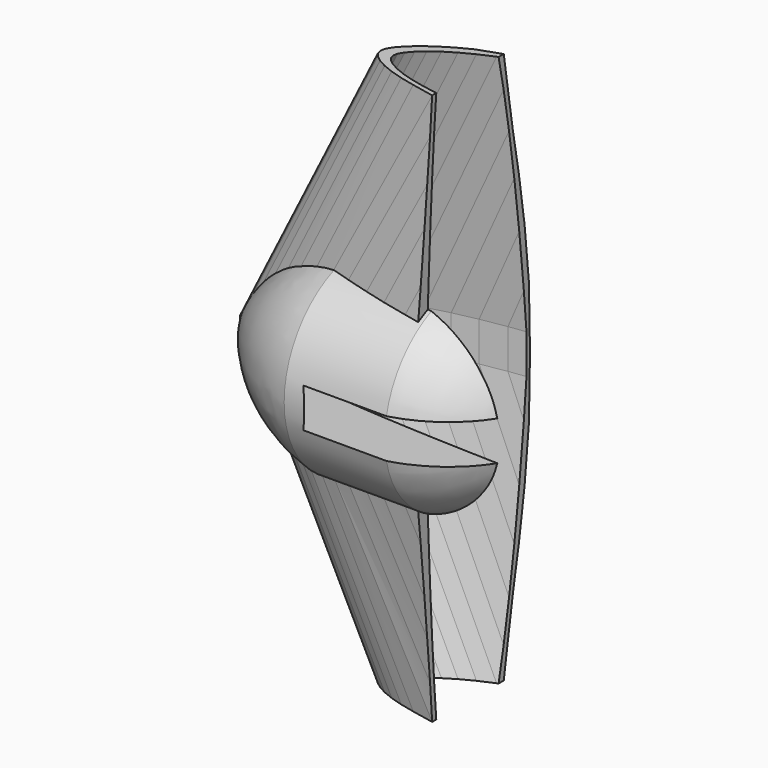
from build123d import *

# Parameters (mm, degrees)
PAD_DEPTH        = 5
REVOLUTION_ANGLE = 180
BOX_W            = 300
BOX_H            = 100
BOX_DEPTH        = 140


with BuildPart() as fusoliera:
    # Sketch → Pad (new body, symmetric)
    with BuildSketch(Plane.XY):
        with BuildLine():
            Line((290, 0), (289.7129, 0.0174))
            Line((289.7129, 0.0174), (288.8574, 0.0696))
            Line((288.8574, 0.0696), (287.4306, 0.1769))
            Line((287.4306, 0.1769), (285.4441, 0.3509))
            Line((285.4441, 0.3509), (282.9037, 0.6003))
            Line((282.9037, 0.6003), (279.8181, 0.9251))
            Line((279.8181, 0.9251), (276.1989, 1.3224))
            Line((276.1989, 1.3224), (272.0635, 1.7893))
            Line((272.0635, 1.7893), (267.4264, 2.3229))
            Line((267.4264, 2.3229), (262.3079, 2.9261))
            Line((262.3079, 2.9261), (256.7254, 3.6076))
            Line((256.7254, 3.6076), (250.6992, 4.3587))
            Line((250.6992, 4.3587), (244.2583, 5.1852))
            Line((244.2583, 5.1852), (237.4259, 6.0784))
            Line((237.4259, 6.0784), (230.2281, 7.0383))
            Line((230.2281, 7.0383), (230.2281, 40.028069))
            Line((230.2281, 40.028069), (201.90651, 39.515951))
            ThreePointArc((172.217343, 14.637652), (187.660006, 26.363067), (201.90651, 39.515951))
            Line((172.217343, 14.637652), (163.1743, 16.2081))
            Line((163.1743, 16.2081), (154.106, 17.371))
            Line((154.106, 17.371), (145, 18.4817))
            Line((145, 18.4817), (135.8969, 19.5199))
            Line((135.8969, 19.5199), (126.8257, 20.4682))
            Line((126.8257, 20.4682), (117.8299, 21.3034))
            Line((117.8299, 21.3034), (108.9414, 22.0023))
            Line((108.9414, 22.0023), (100.1921, 22.5446))
            Line((100.1921, 22.5446), (91.6226, 22.9129))
            Line((91.6226, 22.9129), (83.2619, 23.0898))
            Line((83.2619, 23.0898), (75.1448, 23.0608))
            Line((75.1448, 23.0608), (67.3061, 22.8201))
            Line((67.3061, 22.8201), (59.7719, 22.3561))
            Line((59.7719, 22.3561), (52.5741, 21.6717))
            Line((52.5741, 21.6717), (45.7417, 20.7698))
            Line((45.7417, 20.7698), (39.3008, 19.662))
            Line((39.3008, 19.662), (33.2746, 18.3628))
            Line((33.2746, 18.3628), (27.6921, 16.8896))
            Line((27.6921, 16.8896), (22.5736, 15.2714))
            Line((22.5736, 15.2714), (17.9365, 13.5314))
            Line((17.9365, 13.5314), (13.8011, 11.7015))
            Line((13.8011, 11.7015), (10.1819, 9.8165))
            Line((10.1819, 9.8165), (7.0963, 7.9112))
            Line((7.0963, 7.9112), (4.5559, 6.0378))
            Line((4.5559, 6.0378), (2.5694, 4.263))
            Line((2.5694, 4.263), (1.1426, 2.6535))
            Line((1.1426, 2.6535), (0.2871, 1.2383))
            Line((0.2871, 1.2383), (0, 0))
            Line((0, 0), (0.2871, -1.131))
            Line((0.2871, -1.131), (1.1426, -2.2243))
            Line((1.1426, -2.2243), (2.5694, -3.3176))
            Line((2.5694, -3.3176), (4.5559, -4.3964))
            Line((4.5559, -4.3964), (7.0963, -5.4201))
            Line((38.675534, -31.593528), (7.0963, -5.4201))
            Line((38.675534, -31.593528), (232.520951, -31.593528))
            Line((232.520951, -31.593528), (244.2583, -4.8227))
            Line((244.2583, -4.8227), (250.6992, -4.1267))
            Line((250.6992, -4.1267), (256.7254, -3.4626))
            Line((256.7254, -3.4626), (262.3079, -2.842))
            Line((262.3079, -2.842), (267.4264, -2.2765))
            Line((267.4264, -2.2765), (272.0635, -1.7661))
            Line((272.0635, -1.7661), (276.1989, -1.3137))
            Line((276.1989, -1.3137), (279.8181, -0.9222))
            Line((279.8181, -0.9222), (282.9037, -0.5974))
            Line((282.9037, -0.5974), (285.4441, -0.3509))
            Line((285.4441, -0.3509), (287.4306, -0.1769))
            Line((287.4306, -0.1769), (288.8574, -0.0696))
            Line((288.8574, -0.0696), (289.7129, -0.0174))
            Line((289.7129, -0.0174), (290, 0))
        make_face()
    extrude(amount=PAD_DEPTH, both=True)


with BuildPart() as loft_body:
    # Sketch001 → Loft section 0
    with BuildSketch(Plane.XY):
        Polygon((290, 0), (289.7129, 0.0174), (288.8574, 0.0696), (287.4306, 0.1769), (285.4441, 0.3509), (282.9037, 0.6003), (279.8181, 0.9251), (276.1989, 1.3224), (272.0635, 1.7893), (267.4264, 2.3229), (262.3079, 2.9261), (256.7254, 3.6076), (250.6992, 4.3587), (244.2583, 5.1852), (237.4259, 6.0784), (230.2281, 7.0383), (222.6939, 8.0591), (214.8552, 9.135), (206.7381, 10.2573), (198.3774, 11.4173), (189.8079, 12.6034), (181.0615, 13.8098), (172.1701, 15.0162), (163.1743, 16.2081), (154.106, 17.371), (145, 18.4817), (135.8969, 19.5199), (126.8257, 20.4682), (117.8299, 21.3034), (108.9414, 22.0023), (100.1921, 22.5446), (91.6226, 22.9129), (83.2619, 23.0898), (75.1448, 23.0608), (67.3061, 22.8201), (59.7719, 22.3561), (52.5741, 21.6717), (45.7417, 20.7698), (39.3008, 19.662), (33.2746, 18.3628), (27.6921, 16.8896), (22.5736, 15.2714), (17.9365, 13.5314), (13.8011, 11.7015), (10.1819, 9.8165), (7.0963, 7.9112), (4.5559, 6.0378), (2.5694, 4.263), (1.1426, 2.6535), (0.2871, 1.2383), (0, 0), (0.2871, -1.131), (1.1426, -2.2243), (2.5694, -3.3176), (4.5559, -4.3964), (7.0963, -5.4201), (10.1819, -6.3568), (13.8011, -7.1949), (17.9365, -7.9344), (22.5736, -8.5811), (27.6921, -9.1437), (33.2746, -9.6367), (39.3008, -10.063), (45.7417, -10.4371), (52.5741, -10.7619), (59.7719, -11.0461), (67.3061, -11.2926), (75.1448, -11.5043), (83.2619, -11.6812), (91.6226, -11.8175), (100.1921, -11.9161), (108.9414, -11.9683), (117.8299, -11.9712), (126.8257, -11.9161), (135.8969, -11.8001), (145, -11.6174), (154.106, -11.3651), (163.1743, -11.0374), (172.1701, -10.6401), (181.0615, -10.1732), (189.8079, -9.6396), (198.3774, -9.0451), (206.7381, -8.4013), (214.8552, -7.7169), (222.6939, -7.0064), (230.2281, -6.2756), (237.4259, -5.5448), (244.2583, -4.8227), (250.6992, -4.1267), (256.7254, -3.4626), (262.3079, -2.842), (267.4264, -2.2765), (272.0635, -1.7661), (276.1989, -1.3137), (279.8181, -0.9222), (282.9037, -0.5974), (285.4441, -0.3509), (287.4306, -0.1769), (288.8574, -0.0696), (289.7129, -0.0174), align=None)
    # Sketch002 → Loft section 1
    with BuildSketch(Plane(origin=(220, 0, 430), x_dir=(1, 0, 0), z_dir=(0, 0, 1))):
        Polygon((120, 0), (119.8812, 0.0072), (119.5272, 0.0288), (118.9368, 0.0732), (118.1148, 0.1452), (117.0636, 0.2484), (115.7868, 0.3828), (114.2892, 0.5472), (112.578, 0.7404), (110.6592, 0.9612), (108.5412, 1.2108), (106.2312, 1.4928), (103.7376, 1.8036), (101.0724, 2.1456), (98.2452, 2.5152), (95.2668, 2.9124), (92.1492, 3.3348), (88.9056, 3.78), (85.5468, 4.2444), (82.0872, 4.7244), (78.5412, 5.2152), (74.922, 5.7144), (71.2428, 6.2136), (67.5204, 6.7068), (63.768, 7.188), (60, 7.6476), (56.2332, 8.0772), (52.4796, 8.4696), (48.7572, 8.8152), (45.0792, 9.1044), (41.4588, 9.3288), (37.9128, 9.4812), (34.4532, 9.5544), (31.0944, 9.5424), (27.8508, 9.4428), (24.7332, 9.2508), (21.7548, 8.9676), (18.9276, 8.5944), (16.2624, 8.136), (13.7688, 7.5984), (11.4588, 6.9888), (9.3408, 6.3192), (7.422, 5.5992), (5.7108, 4.842), (4.2132, 4.062), (2.9364, 3.2736), (1.8852, 2.4984), (1.0632, 1.764), (0.4728, 1.098), (0.1188, 0.5124), (0, 0), (0.1188, -0.468), (0.4728, -0.9204), (1.0632, -1.3728), (1.8852, -1.8192), (2.9364, -2.2428), (4.2132, -2.6304), (5.7108, -2.9772), (7.422, -3.2832), (9.3408, -3.5508), (11.4588, -3.7836), (13.7688, -3.9876), (16.2624, -4.164), (18.9276, -4.3188), (21.7548, -4.4532), (24.7332, -4.5708), (27.8508, -4.6728), (31.0944, -4.7604), (34.4532, -4.8336), (37.9128, -4.89), (41.4588, -4.9308), (45.0792, -4.9524), (48.7572, -4.9536), (52.4796, -4.9308), (56.2332, -4.8828), (60, -4.8072), (63.768, -4.7028), (67.5204, -4.5672), (71.2428, -4.4028), (74.922, -4.2096), (78.5412, -3.9888), (82.0872, -3.7428), (85.5468, -3.4764), (88.9056, -3.1932), (92.1492, -2.8992), (95.2668, -2.5968), (98.2452, -2.2944), (101.0724, -1.9956), (103.7376, -1.7076), (106.2312, -1.4328), (108.5412, -1.176), (110.6592, -0.942), (112.578, -0.7308), (114.2892, -0.5436), (115.7868, -0.3816), (117.0636, -0.2472), (118.1148, -0.1452), (118.9368, -0.0732), (119.5272, -0.0288), (119.8812, -0.0072), align=None)
    loft()


with BuildPart() as loft_body_1:
    # Loft placement: moved
    add(loft_body.part.moved(Location((0, 0, 5))))


with BuildPart() as aereo:
    # Part__Mirroring: instance of Loft body
    add(loft_body_1.part.mirror(Plane(origin=(170, 5.5593, 0), x_dir=(0, 1, 0), z_dir=(0, 0, 1))))

    # Fusion001: union Loft body
    add(loft_body_1.part)

    # Fusion002: union fusoliera
    add(fusoliera.part)


with BuildPart() as obj1:
    # Sketch005 → Revolution (revolve)
    with BuildSketch(Plane.XZ):
        with BuildLine():
            ThreePointArc((25.407095, 24.798698), (7.644088, 15.826593), (-4.419994, 0))
            Line((-4.419994, 0), (73.884384, 0))
            ThreePointArc((73.884384, 0), (66.028237, 15.73582), (50.955104, 24.798698))
            Line((25.407095, 24.798698), (50.955104, 24.798698))
        make_face()
    revolve(axis=Axis((0, 0, 0), (1, 0, 0)), revolution_arc=REVOLUTION_ANGLE)


with BuildPart() as cubo:
    # Box → Box (new body)
    with BuildSketch(Plane(origin=(50, -50, -70), x_dir=(1, 0, 0), z_dir=(0, 0, 1))):
        with Locations((150, 50)):
            Rectangle(BOX_W, BOX_H)
    extrude(amount=BOX_DEPTH)


with BuildPart() as loft001:
    # Sketch003 → Loft001 section 0
    with BuildSketch(Plane(origin=(-5, 0, 0), x_dir=(1, 0, 0), z_dir=(0, 0, 1))):
        Polygon((300, 0), (299.703, 0.018), (298.818, 0.072), (297.342, 0.183), (295.287, 0.363), (292.659, 0.621), (289.467, 0.957), (285.723, 1.368), (281.445, 1.851), (276.648, 2.403), (271.353, 3.027), (265.578, 3.732), (259.344, 4.509), (252.681, 5.364), (245.613, 6.288), (238.167, 7.281), (230.373, 8.337), (222.264, 9.45), (213.867, 10.611), (205.218, 11.811), (196.353, 13.038), (187.305, 14.286), (178.107, 15.534), (168.801, 16.767), (159.42, 17.97), (150, 19.119), (140.583, 20.193), (131.199, 21.174), (121.893, 22.038), (112.698, 22.761), (103.647, 23.322), (94.782, 23.703), (86.133, 23.886), (77.736, 23.856), (69.627, 23.607), (61.833, 23.127), (54.387, 22.419), (47.122498, 22.28804), (40.386608, 21.29422), (33.761143, 19.637854), (28.019072, 17.871065), (23.218418, 16.053862), (18.61986, 14.152198), (14.277, 12.105), (10.533, 10.155), (7.341, 8.184), (4.713, 6.246), (2.658, 4.41), (1.182, 2.745), (0.297, 1.281), (0, 0), (0.297, -1.17), (1.182, -2.301), (2.658, -3.432), (4.713, -4.548), (7.341, -5.607), (10.368199, -6.953395), (14.311341, -8.103964), (18.149906, -9.159569), (22.843533, -10.31214), (28.600012, -11.483979), (34.357857, -12.539584), (40.595524, -13.499225), (45.681622, -14.266937), (53.742603, -15.322543), (60.843948, -15.994291), (68.137215, -15.802364), (77.736, -11.901), (86.133, -12.084), (94.782, -12.225), (103.647, -12.327), (112.698, -12.381), (121.893, -12.384), (131.199, -12.327), (140.583, -12.207), (150, -12.018), (159.42, -11.757), (168.801, -11.418), (178.107, -11.007), (187.305, -10.524), (196.353, -9.972), (205.218, -9.357), (213.867, -8.691), (222.264, -7.983), (230.373, -7.248), (238.167, -6.492), (245.613, -5.736), (252.681, -4.989), (259.344, -4.269), (265.578, -3.582), (271.353, -2.94), (276.648, -2.355), (281.445, -1.827), (285.723, -1.359), (289.467, -0.954), (292.659, -0.618), (295.287, -0.363), (297.342, -0.183), (298.818, -0.072), (299.703, -0.018), align=None)
    # Sketch004 → Loft001 section 1
    with BuildSketch(Plane(origin=(30, 0, 70), x_dir=(1, 0, 0), z_dir=(0, 0, 1))):
        Polygon((300, 0), (299.703, 0.018), (298.818, 0.072), (297.342, 0.183), (295.287, 0.363), (292.659, 0.621), (289.467, 0.957), (285.723, 1.368), (281.445, 1.851), (276.648, 2.403), (271.353, 3.027), (265.578, 3.732), (259.344, 4.509), (252.681, 5.364), (245.613, 6.288), (238.167, 7.281), (230.373, 8.337), (222.264, 9.45), (213.867, 10.611), (205.218, 11.811), (196.353, 13.038), (187.305, 14.286), (178.107, 15.534), (168.801, 16.767), (159.42, 17.97), (150, 19.119), (140.583, 20.193), (131.199, 21.174), (121.893, 22.038), (112.698, 22.761), (103.647, 23.322), (94.782, 23.703), (86.133, 23.886), (77.736, 23.856), (69.627, 23.607), (61.833, 23.127), (54.387, 22.419), (47.319, 21.486), (40.463661, 19.942249), (34.701691, 18.390964), (29.541672, 16.724981), (24.743465, 15.477445), (20.041225, 14.133949), (14.277, 12.105), (10.533, 10.155), (7.341, 8.184), (4.713, 6.246), (2.658, 4.41), (1.182, 2.745), (0.297, 1.281), (0, 0), (0.297, -1.17), (1.182, -2.301), (2.658, -3.432), (4.713, -4.548), (7.341, -5.607), (10.533, -6.576), (14.277, -7.443), (20.041225, -8.60954), (24.743465, -9.089361), (30.117455, -9.665145), (34.422, -9.969), (40.656, -10.41), (47.319, -10.797), (54.387, -11.133), (61.833, -11.427), (69.627, -11.682), (77.736, -11.901), (86.133, -12.084), (94.782, -12.225), (103.647, -12.327), (112.698, -12.381), (121.893, -12.384), (131.199, -12.327), (140.583, -12.207), (150, -12.018), (159.42, -11.757), (168.801, -11.418), (178.107, -11.007), (187.305, -10.524), (196.353, -9.972), (205.218, -9.357), (213.867, -8.691), (222.264, -7.983), (230.373, -7.248), (238.167, -6.492), (245.613, -5.736), (252.681, -4.989), (259.344, -4.269), (265.578, -3.582), (271.353, -2.94), (276.648, -2.355), (281.445, -1.827), (285.723, -1.359), (289.467, -0.954), (292.659, -0.618), (295.287, -0.363), (297.342, -0.183), (298.818, -0.072), (299.703, -0.018), align=None)
    loft()


with BuildPart() as obj2:
    # Part__Mirroring001: instance of Loft001
    add(loft001.part.mirror(Plane(origin=(160, 5.751, 0), x_dir=(0, 1, 0), z_dir=(0, 0, 1))))

    # Fusion: union Loft001
    add(loft001.part)

    # Cut: cut Cubo
    add(cubo.part, mode=Mode.SUBTRACT)

    # Fusion003: union obj1
    add(obj1.part)

    # Cut001: cut aereo
    add(aereo.part, mode=Mode.SUBTRACT)


solid = obj2.part
